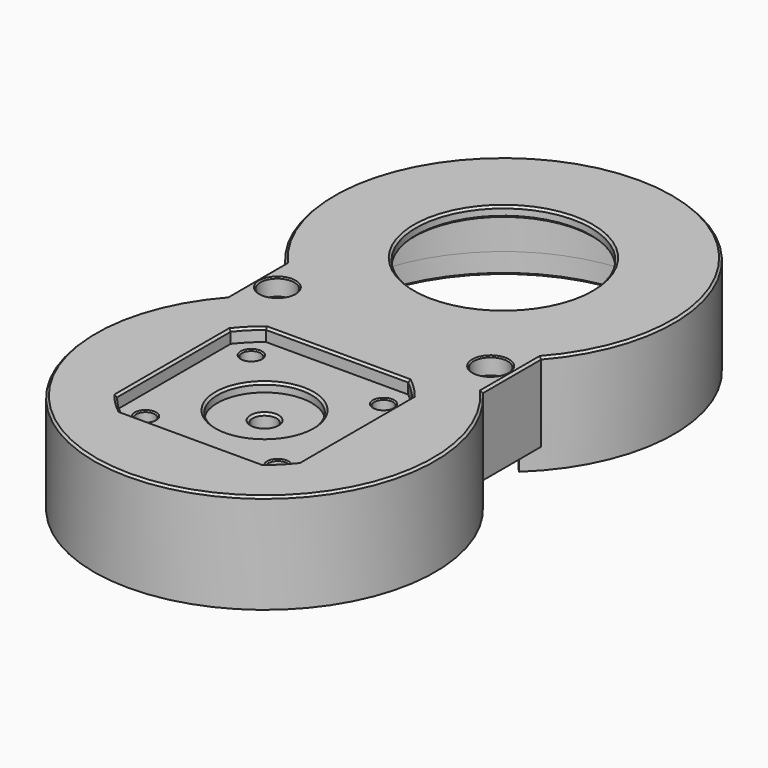
from build123d import *

# Parameters (mm, degrees)
SKETCH021_R     = 2.55
PAD_DEPTH       = 17
SKETCH022_R     = 2.55
SKETCH022_R_2   = 20.5
PAD004_DEPTH    = 2.5
POCKET006_DEPTH = 3
SKETCH024_R     = 2.2
POCKET007_DEPTH = 13.001
SKETCH025_R     = 3.2
POCKET008_DEPTH = 4
SKETCH026_R     = 4
POCKET009_DEPTH = 4
SKETCH027_R     = 4
POCKET010_DEPTH = 2
PAD007_DEPTH    = 4.9
CHAMFER005_SIZE = 0.5
CHAMFER006_SIZE = 0.3


with BuildPart() as part:
    # Sketch021 → Pad (new body)
    with BuildSketch(Plane.XY.offset(11.5)):
        with BuildLine():
            ThreePointArc((30, 43.542487), (0, 110), (-30, 43.542487))
            Line((-30, 43.542487), (-30, 26.457513))
            ThreePointArc((-30, 26.457513), (0, -40), (30, 26.457513))
            Line((30, 26.457513), (30, 43.542487))
        make_face()
        with BuildLine():
            ThreePointArc((20.001597, 37.69), (0, 108), (-20.001597, 37.69))
            Line((-20.001597, 37.69), (-20.001597, 32.31))
            ThreePointArc((-20.001597, 32.31), (0, -38), (20.001597, 32.31))
            Line((20.001597, 32.31), (20.001597, 37.69))
        make_face(mode=Mode.SUBTRACT)
        with Locations((-25, 35)):
            Circle(SKETCH021_R, mode=Mode.SUBTRACT)
        with Locations((25, 35)):
            Circle(SKETCH021_R, mode=Mode.SUBTRACT)
    extrude(amount=PAD_DEPTH)

    # Sketch022 → Pad004 (join)
    with BuildSketch(Plane.XY.offset(27.5)):
        with BuildLine():
            ThreePointArc((30, 43.542487), (0, 110), (-30, 43.542487))
            Line((-30, 43.542487), (-30, 26.457513))
            ThreePointArc((-30, 26.457513), (0, -40), (30, 26.457513))
            Line((30, 43.542487), (30, 26.457513))
        make_face()
        with Locations((-25, 35)):
            Circle(SKETCH022_R, mode=Mode.SUBTRACT)
        with Locations((25, 35)):
            Circle(SKETCH022_R, mode=Mode.SUBTRACT)
        with Locations((0, 70)):
            Circle(SKETCH022_R_2, mode=Mode.SUBTRACT)
    extrude(amount=PAD004_DEPTH)

    # Sketch020 → Revolution005 (revolve)
    with BuildSketch(Plane.YZ):
        Polygon((12.5, 23.25), (13.073063, 20), (28.677548, 20), (30, 27.5), (11.05, 27.5), (11.05, 24.9), (2.8, 24.9), (2.8, 15.9), (3.45, 15.9), (3.95, 16.4), (3.95, 23), (5.5, 23), (5.5, 23.25), align=None)
    revolve(axis=Axis((0, 0, 0), (0, 0, 1)))

    # Sketch023 → Pocket006 (cut)
    with BuildSketch(Plane.XY.offset(30)):
        with BuildLine():
            ThreePointArc((16.655, -21.25), (19.091248, -19.091248), (21.25, -16.655))
            Line((21.25, 16.655), (21.25, -16.655))
            ThreePointArc((21.25, 16.655), (19.091248, 19.091248), (16.655, 21.25))
            Line((-16.655, 21.25), (16.655, 21.25))
            ThreePointArc((-16.655, 21.25), (-19.091248, 19.091248), (-21.25, 16.655))
            Line((-21.25, -16.655), (-21.25, 16.655))
            ThreePointArc((-21.25, -16.655), (-19.091248, -19.091248), (-16.655, -21.25))
            Line((16.655, -21.25), (-16.655, -21.25))
        make_face()
    extrude(amount=-POCKET006_DEPTH, mode=Mode.SUBTRACT)

    # Sketch024 → Pocket007 (cut, through all)
    with BuildSketch(Plane.XY.offset(17)):
        with Locations((15.5, 15.5)):
            Circle(SKETCH024_R)
        with Locations((15.5, -15.5)):
            Circle(SKETCH024_R)
        with Locations((-15.5, -15.5)):
            Circle(SKETCH024_R)
        with Locations((-15.5, 15.5)):
            Circle(SKETCH024_R)
    extrude(amount=POCKET007_DEPTH, mode=Mode.SUBTRACT)

    # Sketch025 → Pocket008 (cut)
    with BuildSketch(Plane.XY.offset(20)):
        with Locations((15.5, 15.5)):
            Circle(SKETCH025_R)
        with Locations((15.5, -15.5)):
            Circle(SKETCH025_R)
        with Locations((-15.5, -15.5)):
            Circle(SKETCH025_R)
        with Locations((-15.5, 15.5)):
            Circle(SKETCH025_R)
    extrude(amount=POCKET008_DEPTH, mode=Mode.SUBTRACT)

    # Sketch026 (on Face12 of Pocket008) → Pocket009 (cut)
    with BuildSketch(Plane.XY.offset(30)):
        with Locations((25, 35)):
            Circle(SKETCH026_R)
        with Locations((-25, 35)):
            Circle(SKETCH026_R)
    extrude(amount=-POCKET009_DEPTH, mode=Mode.SUBTRACT)

    # Sketch027 (on Face1 of Pocket009) → Pocket010 (cut)
    with BuildSketch(Plane(origin=(0, 0, 11.5), x_dir=(1, 0, 0), z_dir=(0, 0, -1))):
        with Locations((-25, -35)):
            Circle(SKETCH027_R)
        with Locations((25, -35)):
            Circle(SKETCH027_R)
    extrude(amount=-POCKET010_DEPTH, mode=Mode.SUBTRACT)

    # Sketch032 → Pad007 (join)
    with BuildSketch(Plane(origin=(0, 70, 11.5), x_dir=(1, 0, 0), z_dir=(0, 0, 1))):
        with BuildLine():
            ThreePointArc((27.15203, -29.3729), (0, 40), (-27.15203, -29.3729))
            Line((-25.794428, -27.904255), (-27.15203, -29.3729))
            ThreePointArc((25.794428, -27.904255), (0, 38), (-25.794428, -27.904255))
            Line((25.794428, -27.904255), (27.15203, -29.3729))
        make_face()
        with BuildLine():
            ThreePointArc((-27.15203, -40.6271), (0, -110), (27.15203, -40.6271))
            Line((27.15203, -40.6271), (25.794428, -42.095745))
            ThreePointArc((-25.794428, -42.095745), (0, -108), (25.794428, -42.095745))
            Line((-27.15203, -40.6271), (-25.794428, -42.095745))
        make_face()
    extrude(amount=-PAD007_DEPTH)

    # Chamfer005
    chamfer005_edges = [part.edges().sort_by_distance(p)[0] for p in [
        (-30, 35, 30),
        (0, -40, 30),
        (0, 110, 30),
        (30, 35, 30),
        (0, 21.25, 30),
        (-19.091248, 19.091248, 30),
        (-21.25, 0, 30),
        (19.091248, -19.091248, 30),
        (21.25, 0, 30),
        (19.091248, 19.091248, 30),
        (-19.091248, -19.091248, 30),
        (0, -21.25, 30),
        (-20.5, 70, 30),
        (0, -11.05, 27),
        (0, -2.8, 24.9),
        (-20.5, 70, 27.5),
        (0, -38, 6.6),
        (0, 108, 6.6),
        (0, -13.073063, 20),
        (0, 108, 27.5),
        (20.001597, 35, 27.5),
        (0, -38, 27.5),
        (-20.001597, 35, 27.5),
        (-18.7, 15.5, 20),
        (-18.7, -15.5, 20),
        (12.3, -15.5, 20),
        (12.3, 15.5, 20),
        (21, 35, 11.5),
        (-29, 35, 11.5),
    ]]
    chamfer(chamfer005_edges, length=CHAMFER005_SIZE)

    # Chamfer006
    chamfer006_edges = [part.edges().sort_by_distance(p)[0] for p in [
        (-29, 35, 30),
        (21, 35, 30),
        (-17.7, -15.5, 27),
        (13.3, -15.5, 27),
        (13.3, 15.5, 27),
        (-17.7, 15.5, 27),
    ]]
    chamfer(chamfer006_edges, length=CHAMFER006_SIZE)


with BuildPart() as part_1:
    # Body007 placement: moved
    add(part.part.moved(Location((0, -70, 0))))


solid = part_1.part
